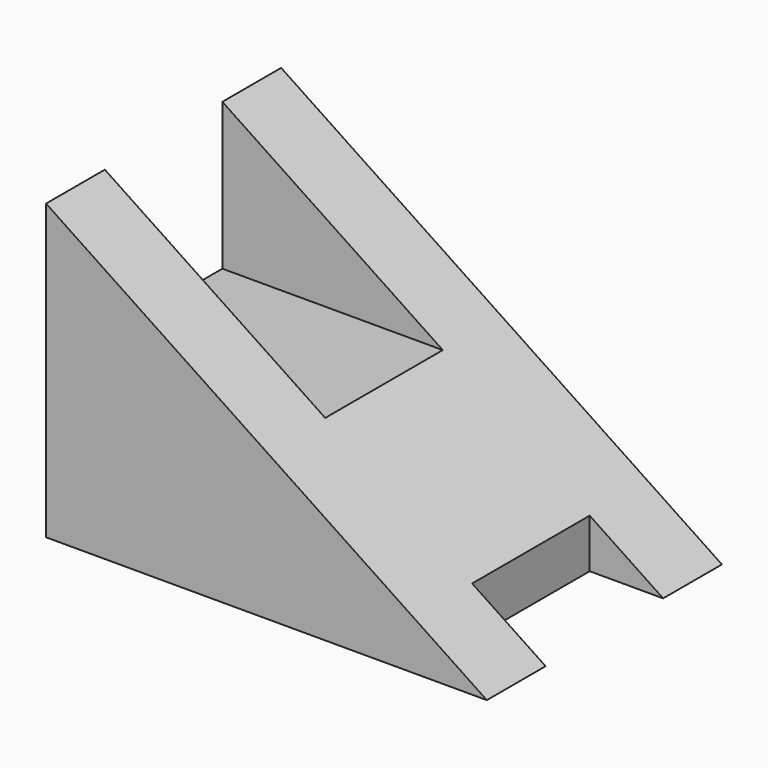
from build123d import *

# Parameters (mm, degrees)
F1_DEPTH = 20
F2_W     = 10
F2_H     = 10
F3_DEPTH = 30.001
F4_W     = 5
F4_H     = 10
F5_DEPTH = 25


with BuildPart() as f1:
    # F0 (on Front) → F1 (new body)
    with BuildSketch(Plane.XZ):
        Polygon((0, 0), (-30, 20), (-30, 0), align=None)
    extrude(amount=-F1_DEPTH)

    # F2 (on face) → F3 (cut, through all)
    with BuildSketch(Plane(origin=(-30, 0, 0), x_dir=(0, -1, 0), z_dir=(-1, 0, 0))):
        with Locations((-10, 15)):
            Rectangle(F2_W, F2_H)
    extrude(amount=-F3_DEPTH, mode=Mode.SUBTRACT)

    # F4 (on Top) → F5 (cut)
    with BuildSketch(Plane.XY):
        with Locations((-2.5, 10)):
            Rectangle(F4_W, F4_H)
    extrude(amount=F5_DEPTH, mode=Mode.SUBTRACT)


solid = f1.part
